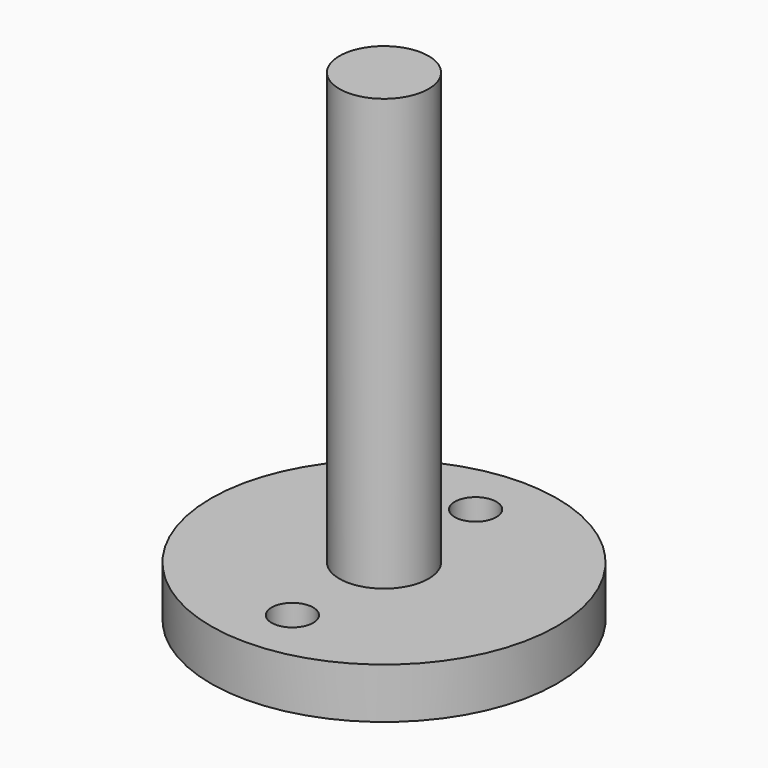
from build123d import *

# Parameters (mm, degrees)
F0_R     = 14.7784
F0_R_2   = 1.778
F1_DEPTH = 4.318
F2_R     = 3.81
F3_DEPTH = 36.83


with BuildPart() as f1:
    # F0 (on Top) → F1 (new body)
    with BuildSketch(Plane.XY):
        Circle(F0_R)
        with Locations((0, -9.779)):
            Circle(F0_R_2, mode=Mode.SUBTRACT)
        with Locations((0, 9.779)):
            Circle(F0_R_2, mode=Mode.SUBTRACT)
    extrude(amount=F1_DEPTH)

    # F2 (on face) → F3 (join)
    with BuildSketch(Plane.XY.offset(4.318)):
        Circle(F2_R)
    extrude(amount=F3_DEPTH)


solid = f1.part
